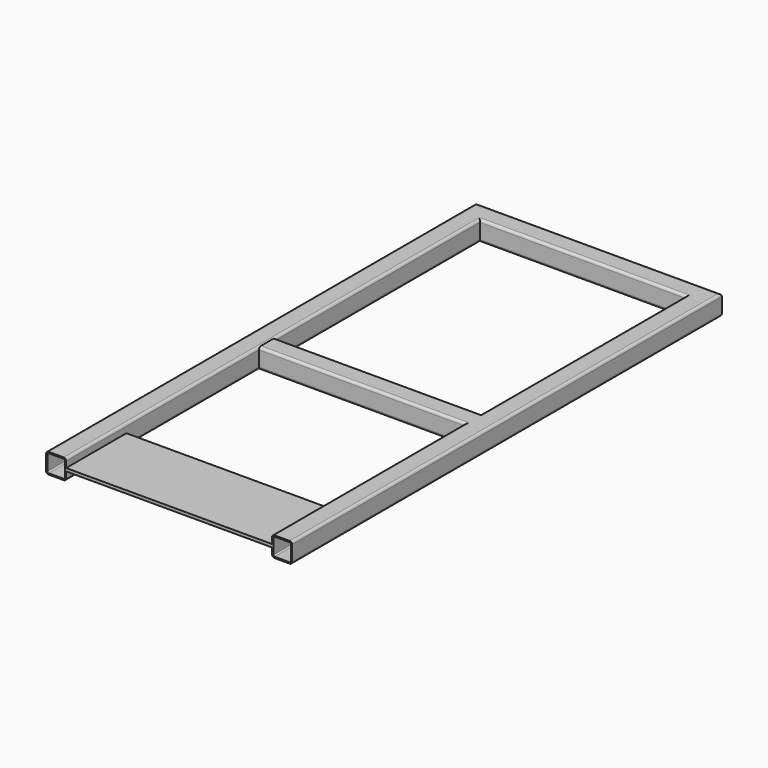
from build123d import *

# Parameters (mm, degrees)
F5_W     = 150
F5_H     = 6
F6_DEPTH = 410


with BuildPart() as f2:
    # F2: sweep along a path in F1
    with BuildLine(Plane.XY) as f2_path:
        Line((0, 0), (0, 1050))
        Line((0, 1050), (450, 1050))
        Line((450, 1050), (450, 0))
    # F0 (on Front) → F2 (sweep)
    with BuildSketch(Plane.XZ):
        with BuildLine():
            Line((-15, -20), (15, -20))
            ThreePointArc((15, -20), (18.5355339059, -18.5355339059), (20, -15))
            Line((20, -15), (20, 15))
            ThreePointArc((20, 15), (18.5355339059, 18.5355339059), (15, 20))
            Line((15, 20), (-15, 20))
            ThreePointArc((-15, 20), (-18.5355339059, 18.5355339059), (-20, 15))
            Line((-20, 15), (-20, -15))
            ThreePointArc((-20, -15), (-18.5355339059, -18.5355339059), (-15, -20))
        make_face()
        with BuildLine():
            ThreePointArc((-15, -17.5), (-16.767766953, -16.767766953), (-17.5, -15))
            Line((-17.5, -15), (-17.5, 15))
            ThreePointArc((-17.5, 15), (-16.767766953, 16.767766953), (-15, 17.5))
            Line((-15, 17.5), (15, 17.5))
            ThreePointArc((15, 17.5), (16.767766953, 16.767766953), (17.5, 15))
            Line((17.5, 15), (17.5, -15))
            ThreePointArc((17.5, -15), (16.767766953, -16.767766953), (15, -17.5))
            Line((15, -17.5), (-15, -17.5))
        make_face(mode=Mode.SUBTRACT)
    sweep(path=f2_path.line, transition=Transition.RIGHT)

    # F3 (on face) → F4 (join, up to the next surface of F2)
    with BuildSketch(Plane.YZ.offset(20)):
        with BuildLine():
            Line((485, -20), (515, -20))
            ThreePointArc((515, -20), (518.5355339059, -18.5355339059), (520, -15))
            Line((520, -15), (520, 15))
            ThreePointArc((520, 15), (518.5355339059, 18.5355339059), (515, 20))
            Line((515, 20), (485, 20))
            ThreePointArc((485, 20), (481.4644660941, 18.5355339059), (480, 15))
            Line((480, 15), (480, -15))
            ThreePointArc((480, -15), (481.4644660941, -18.5355339059), (485, -20))
        make_face()
        with BuildLine():
            ThreePointArc((485, -17.5), (483.232233047, -16.767766953), (482.5, -15))
            Line((482.5, -15), (482.5, 15))
            ThreePointArc((482.5, 15), (483.232233047, 16.767766953), (485, 17.5))
            Line((485, 17.5), (515, 17.5))
            ThreePointArc((515, 17.5), (516.767766953, 16.767766953), (517.5, 15))
            Line((517.5, 15), (517.5, -15))
            ThreePointArc((517.5, -15), (516.767766953, -16.767766953), (515, -17.5))
            Line((515, -17.5), (485, -17.5))
        make_face(mode=Mode.SUBTRACT)
    extrude(until=Until.NEXT)

    # F5 (on face) → F6 (join, through all)
    with BuildSketch(Plane.YZ.offset(20)):
        with Locations((75, 0)):
            Rectangle(F5_W, F5_H)
    extrude(amount=F6_DEPTH)


solid = f2.part
